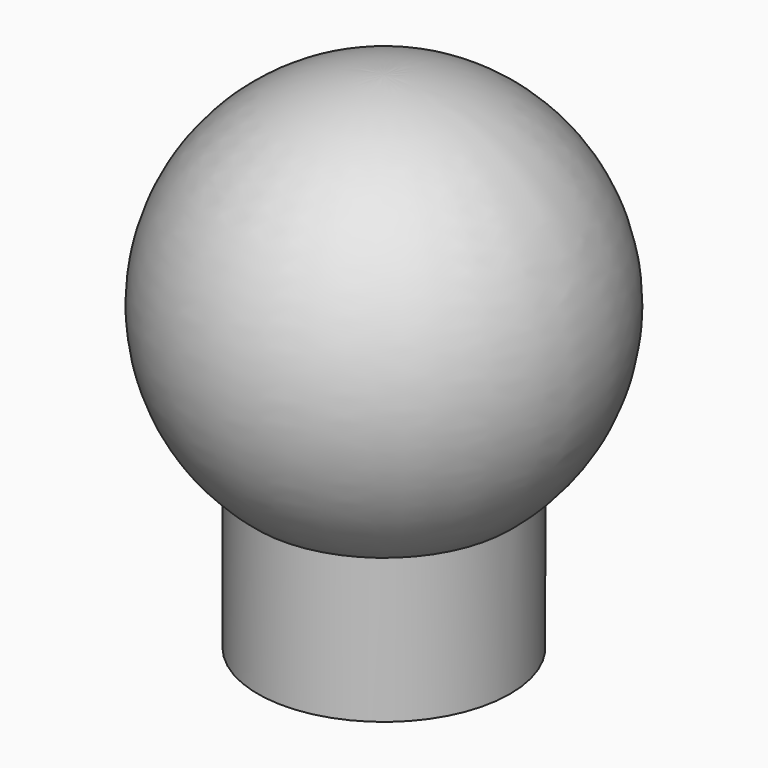
from build123d import *

# Parameters (mm, degrees)
F0_R     = 6.35
F1_DEPTH = 13.97


with BuildPart() as f1:
    # F0 (on Top) → F1 (new body)
    with BuildSketch(Plane.XY):
        Circle(F0_R)
        with BuildLine():
            ThreePointArc((3.0503, 0.881077), (3.082176, -0.762114), (2.288185, -2.201098))
            Line((2.288185, -2.201098), (2.150894, -2.069032))
            ThreePointArc((2.150894, -2.069032), (1.542099, -2.555224), (0.828213, -2.867282))
            Line((0.828213, -2.867282), (0.881077, -3.0503))
            ThreePointArc((0.881077, -3.0503), (-0.762114, -3.082176), (-2.201098, -2.288185))
            Line((-2.201098, -2.288185), (-2.069032, -2.150894))
            ThreePointArc((-2.069032, -2.150894), (-2.555224, -1.542099), (-2.867282, -0.828213))
            Line((-2.867282, -0.828213), (-3.0503, -0.881077))
            ThreePointArc((-3.0503, -0.881077), (-3.082176, 0.762114), (-2.288185, 2.201098))
            Line((-2.288185, 2.201098), (-2.150894, 2.069032))
            ThreePointArc((-2.150894, 2.069032), (-1.542099, 2.555224), (-0.828213, 2.867282))
            Line((-0.828213, 2.867282), (-0.881077, 3.0503))
            ThreePointArc((-0.881077, 3.0503), (0.762114, 3.082176), (2.201098, 2.288185))
            Line((2.201098, 2.288185), (2.069032, 2.150894))
            ThreePointArc((2.069032, 2.150894), (2.555224, 1.542099), (2.867282, 0.828213))
            Line((2.867282, 0.828213), (3.0503, 0.881077))
        make_face(mode=Mode.SUBTRACT)
    extrude(amount=F1_DEPTH)

    # F2 (on Right) → F3 (revolve)
    with BuildSketch(Plane.YZ):
        with BuildLine():
            Line((3.313957, 13.97), (4.245473, 5.972131))
            ThreePointArc((4.245473, 5.972131), (9.924897, 17.37562), (0, 25.3626))
            Line((0, 25.3626), (0, 18.294918))
            Line((0, 18.294918), (3.313957, 13.97))
        make_face()
    revolve(axis=Axis((0, 0, 16.748759), (0, 0, 1)))


solid = f1.part
